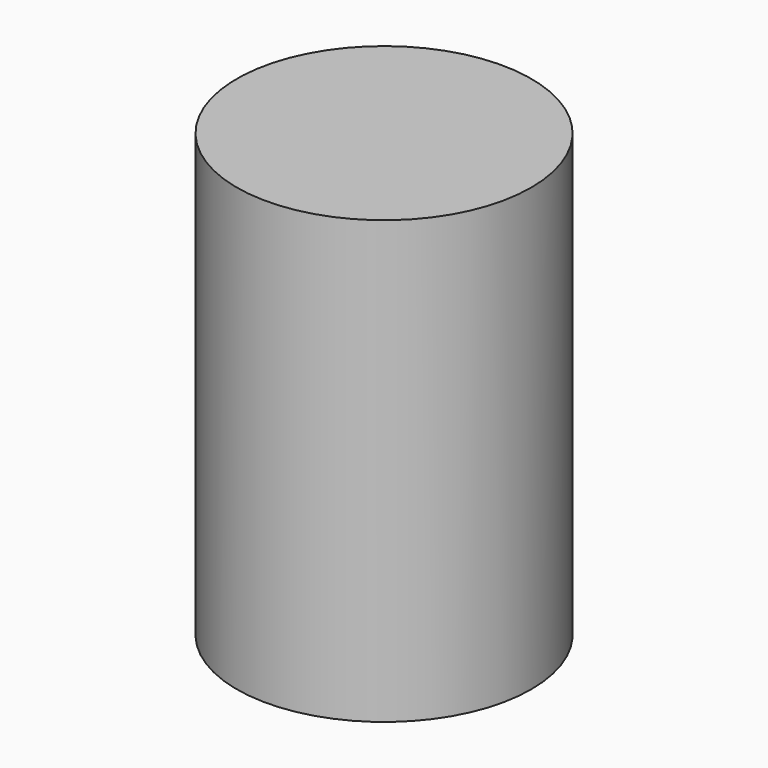
from build123d import *

# Parameters (mm, degrees)
SKETCH_R       = 5
PAD_DEPTH      = 10
PAD_DEPTH_BACK = 5


with BuildPart() as part:
    # Sketch → Pad (new body, two sides)
    with BuildSketch(Plane.XY) as pad_sk:
        Circle(SKETCH_R)
    extrude(amount=PAD_DEPTH)
    extrude(pad_sk.sketch, amount=-PAD_DEPTH_BACK)


solid = part.part
